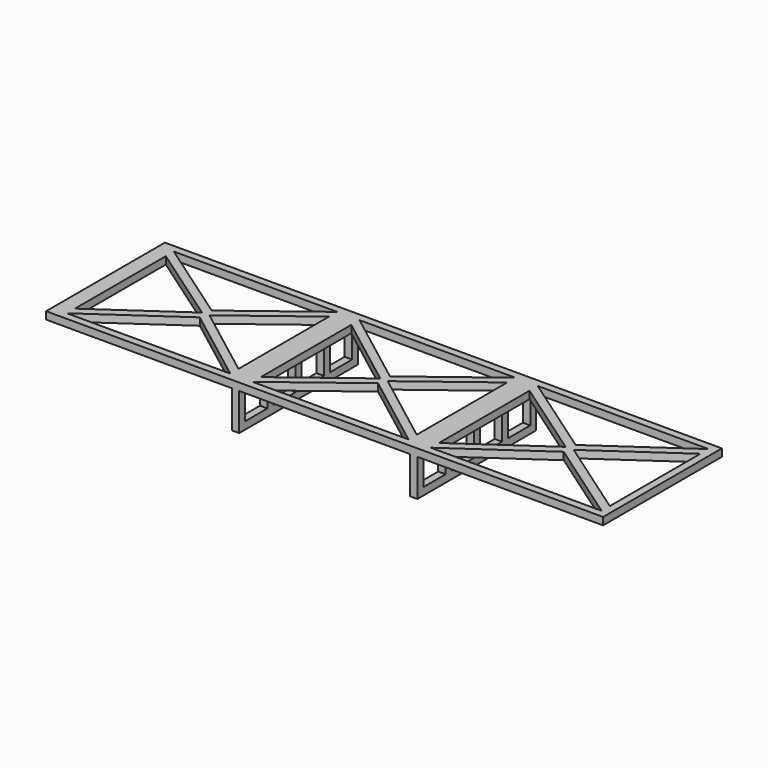
from build123d import *

# Parameters (mm, degrees)
F1_DEPTH      = 20
F3_DEPTH      = 2
F4_W          = 7.5
F4_H          = 8
F5_DEPTH      = 2
F5_DEPTH_BACK = 48


with BuildPart() as f1:
    # F0 (on Front) → F1 (new body, symmetric)
    with BuildSketch(Plane.XZ):
        Polygon((75, 0), (-75, 0), (-75, -2), (-25, -2), (-25, -12), (-23, -12), (-23, -2), (23, -2), (23, -12), (25, -12), (25, -2), (75, -2), align=None)
    extrude(amount=F1_DEPTH, both=True)

    # F2 (on face) → F3 (cut, through all)
    with BuildSketch(Plane(origin=(0, 0, -2), x_dir=(1, 0, 0), z_dir=(0, 0, -1))):
        Polygon((-27, 18), (-71, 18), (-48, 2), align=None)
        Polygon((21, 18), (-21, 18), (0, 2), align=None)
        Polygon((73, 18), (27, 18), (50, 2), align=None)
        Polygon((-27, -18), (-48, -2), (-71, -18), align=None)
        Polygon((21, -18), (0, -2), (-21, -18), align=None)
        Polygon((73, -18), (50, -2), (27, -18), align=None)
        Polygon((-49, 0), (-71, 15.3043478261), (-71, -15.3043478261), align=None)
        Polygon((-27, -15.2380952381), (-27, 15.2380952381), (-47, 0), align=None)
        Polygon((-1, 0), (-21, 15.2380952381), (-21, -15.2380952381), align=None)
        Polygon((21, -15.2380952381), (21, 15.2380952381), (1, 0), align=None)
        Polygon((48.9047619048, 0), (27, 15.2380952381), (27, -15.2380952381), align=None)
        Polygon((73, -15.2380952381), (73, 15.2380952381), (51.0952380952, 0), align=None)
    extrude(amount=-F3_DEPTH, mode=Mode.SUBTRACT)

    # F4 (on face) → F5 (cut, two sides)
    with BuildSketch(Plane(origin=(23, 0, 0), x_dir=(0, -1, 0), z_dir=(-1, 0, 0))) as f5_sk:
        with Locations((14.25, -6)):
            Rectangle(F4_W, F4_H)
        with Locations((4.75, -6)):
            Rectangle(F4_W, F4_H)
        with Locations((-4.75, -6)):
            Rectangle(F4_W, F4_H)
        with Locations((-14.25, -6)):
            Rectangle(F4_W, F4_H)
    extrude(amount=-F5_DEPTH, mode=Mode.SUBTRACT)
    extrude(f5_sk.sketch, amount=F5_DEPTH_BACK, mode=Mode.SUBTRACT)


solid = f1.part
